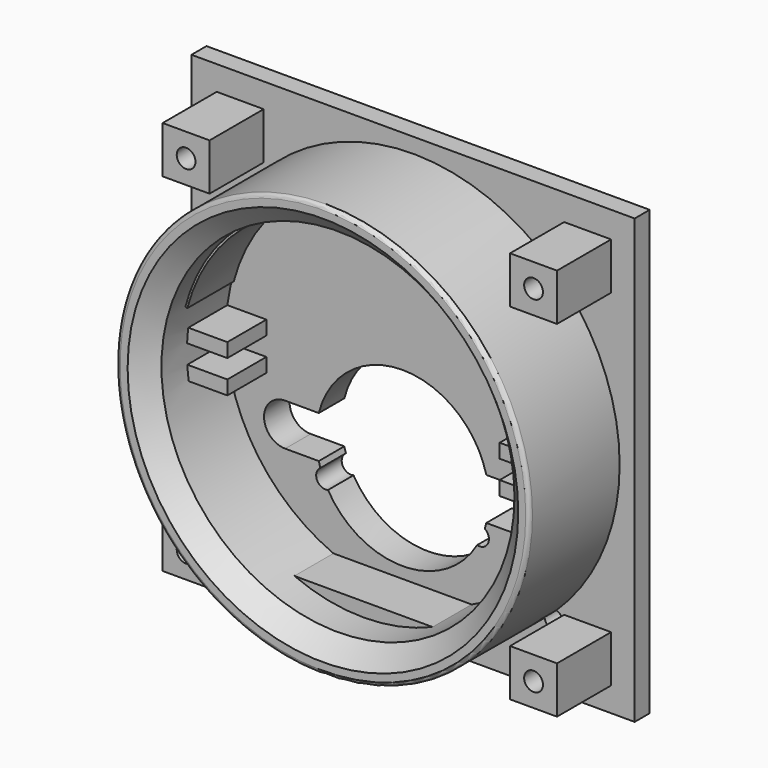
from build123d import *

# Parameters (mm, degrees)
F0_R      = 24.257
F1_DEPTH  = 4.318
F2_D      = 2.54
F3_DEPTH  = 10.922
F4_R      = 27.94
F4_R_2    = 23.876
F5_DEPTH  = 17.78
F0_W      = 59.944
F0_H      = 59.944
F0_W_2    = 6.35
F0_H_2    = 6.35
F8_DEPTH  = 2.54
F10_DEPTH = 9.652
F11_R     = 1.27
F12_DEPTH = 5.08
F7_W      = 25.4
F7_H      = 2.54
F7_W_2    = 6.35
F7_H_2    = 1.905
F13_DEPTH = 8.382
F14_DEPTH = 11.684
F15_D     = 2.54
F16_SIZE  = 2.54
F17_R     = 0.508


with BuildPart() as f1:
    # F0 (on Front) → F1 (new body)
    with BuildSketch(Plane.XZ):
        Circle(F0_R)
        with BuildLine():
            ThreePointArc((-11.329190163, -5.9055), (0, 2.921), (11.329190163, -5.9055))
            Line((11.329190163, -5.9055), (15.875, -5.9055))
            ThreePointArc((15.875, -5.9055), (17.8955576272, -6.7424423728), (18.7325, -8.763))
            ThreePointArc((18.7325, -8.763), (17.8955576272, -10.7835576272), (15.875, -11.6205))
            Line((15.875, -11.6205), (11.329190163, -11.6205))
            ThreePointArc((11.329190163, -11.6205), (0, -20.447), (-11.329190163, -11.6205))
            Line((-11.329190163, -11.6205), (-15.875, -11.6205))
            ThreePointArc((-15.875, -11.6205), (-18.7325, -8.763), (-15.875, -5.9055))
            Line((-15.875, -5.9055), (-11.329190163, -5.9055))
        make_face(mode=Mode.SUBTRACT)
    extrude(amount=F1_DEPTH)

    # F2 (through all)
    with Locations(Plane(origin=(0, 0, 0), x_dir=(1, 0, 0), z_dir=(0, 1, 0))):
        with Locations((-10.414, 13.4366), (10.414, 13.4366)):
            Hole(F2_D / 2)

    # F0 (on Front) → F3 (cut)
    with BuildSketch(Plane.XZ):
        Circle(F0_R)
        with BuildLine():
            ThreePointArc((-11.329190163, -5.9055), (0, 2.921), (11.329190163, -5.9055))
            Line((11.329190163, -5.9055), (15.875, -5.9055))
            ThreePointArc((15.875, -5.9055), (17.8955576272, -6.7424423728), (18.7325, -8.763))
            ThreePointArc((18.7325, -8.763), (17.8955576272, -10.7835576272), (15.875, -11.6205))
            Line((15.875, -11.6205), (11.329190163, -11.6205))
            ThreePointArc((11.329190163, -11.6205), (0, -20.447), (-11.329190163, -11.6205))
            Line((-11.329190163, -11.6205), (-15.875, -11.6205))
            ThreePointArc((-15.875, -11.6205), (-18.7325, -8.763), (-15.875, -5.9055))
            Line((-15.875, -5.9055), (-11.329190163, -5.9055))
        make_face(mode=Mode.SUBTRACT)
        Circle(F0_R)
        with BuildLine():
            ThreePointArc((-11.329190163, -5.9055), (0, 2.921), (11.329190163, -5.9055))
            Line((11.329190163, -5.9055), (15.875, -5.9055))
            ThreePointArc((15.875, -5.9055), (17.8955576272, -6.7424423728), (18.7325, -8.763))
            ThreePointArc((18.7325, -8.763), (17.8955576272, -10.7835576272), (15.875, -11.6205))
            Line((15.875, -11.6205), (11.329190163, -11.6205))
            ThreePointArc((11.329190163, -11.6205), (0, -20.447), (-11.329190163, -11.6205))
            Line((-11.329190163, -11.6205), (-15.875, -11.6205))
            ThreePointArc((-15.875, -11.6205), (-18.7325, -8.763), (-15.875, -5.9055))
            Line((-15.875, -5.9055), (-11.329190163, -5.9055))
        make_face(mode=Mode.SUBTRACT)
        with BuildLine():
            ThreePointArc((-13.0175, -8.763), (-13.8544423728, -6.7424423728), (-15.875, -5.9055))
            Line((-15.875, -5.9055), (-15.875, -11.6205))
            ThreePointArc((-15.875, -11.6205), (-13.8544423728, -10.7835576272), (-13.0175, -8.763))
        make_face()
        with BuildLine():
            Line((-15.875, -11.6205), (-15.875, -5.9055))
            ThreePointArc((-15.875, -5.9055), (-18.7325, -8.763), (-15.875, -11.6205))
        make_face()
        with BuildLine():
            Line((15.875, -11.6205), (15.875, -5.9055))
            ThreePointArc((15.875, -5.9055), (13.0175, -8.763), (15.875, -11.6205))
        make_face()
        with BuildLine():
            ThreePointArc((18.7325, -8.763), (17.8955576272, -6.7424423728), (15.875, -5.9055))
            Line((15.875, -5.9055), (15.875, -11.6205))
            ThreePointArc((15.875, -11.6205), (17.8955576272, -10.7835576272), (18.7325, -8.763))
        make_face()
    extrude(amount=-F3_DEPTH, mode=Mode.SUBTRACT)

    # F4 (on Front) → F5 (join)
    with BuildSketch(Plane.XZ):
        Circle(F4_R)
        Circle(F4_R_2, mode=Mode.SUBTRACT)
    extrude(amount=F5_DEPTH)

    # F0 (on Front) → F8 (join)
    with BuildSketch(Plane.XZ):
        Rectangle(F0_W, F0_H)
        with Locations((-23.3818002729, -23.495)):
            Rectangle(F0_W_2, F0_H_2, mode=Mode.SUBTRACT)
        Circle(F0_R, mode=Mode.SUBTRACT)
        with Locations((23.6081997271, -23.495)):
            Rectangle(F0_W_2, F0_H_2, mode=Mode.SUBTRACT)
        with Locations((-23.3818002729, 23.495)):
            Rectangle(F0_W_2, F0_H_2, mode=Mode.SUBTRACT)
        with Locations((23.6081997271, 23.2674991059)):
            Rectangle(F0_W_2, F0_H_2, mode=Mode.SUBTRACT)
    extrude(amount=F8_DEPTH)

    # F11 (on Front) → F12 (cut)
    with BuildSketch(Plane.XZ):
        with Locations((19.05, 16.7340026)):
            Circle(F11_R)
        with Locations((-19.05, 16.7340026)):
            Circle(F11_R)
        with Locations((-19.05, -21.3659974)):
            Circle(F11_R)
        with Locations((19.05, -21.3659974)):
            Circle(F11_R)
    extrude(amount=F12_DEPTH, mode=Mode.SUBTRACT)

    # F7 (on offset) → F13 (join)
    with BuildSketch(Plane.XZ.offset(2.54)):
        with Locations((0, -23.241)):
            Rectangle(F7_W, F7_H)
        with Locations((-21.59, 1.9685)):
            Rectangle(F7_W_2, F7_H_2)
        with Locations((-21.59, -2.4765)):
            Rectangle(F7_W_2, F7_H_2)
        with Locations((21.59, -2.4765)):
            Rectangle(F7_W_2, F7_H_2)
        with Locations((21.59, 1.9685)):
            Rectangle(F7_W_2, F7_H_2)
    extrude(amount=F13_DEPTH)

    # F0 (on Front) → F14 (join)
    with BuildSketch(Plane.XZ):
        with Locations((-23.3818002729, -23.495)):
            Rectangle(F0_W_2, F0_H_2)
        with Locations((-23.3818002729, 23.495)):
            Rectangle(F0_W_2, F0_H_2)
        with Locations((23.6081997271, 23.2674991059)):
            Rectangle(F0_W_2, F0_H_2)
        with Locations((23.6081997271, -23.495)):
            Rectangle(F0_W_2, F0_H_2)
    extrude(amount=F14_DEPTH)

    # F15 (through all)
    with Locations(Plane(origin=(0, 0, 0), x_dir=(1, 0, 0), z_dir=(0, 1, 0))):
        with Locations((-23.3818002729, -23.495), (23.6081997271, -23.2674991059), (-23.3818002729, 23.495), (23.6081997271, 23.495)):
            Hole(F15_D / 2)

    # F16
    f16_edges = [f1.edges().sort_by_distance(p)[0] for p in [
        (-23.876, -17.78, 0),
    ]]
    chamfer(f16_edges, length=F16_SIZE)

    # F17
    f17_edges = [f1.edges().sort_by_distance(p)[0] for p in [
        (-27.94, -17.78, 0),
    ]]
    fillet(f17_edges, radius=F17_R)


with BuildPart() as f10:
    # F9 (on offset) → F10 (new body)
    with BuildSketch(Plane.XZ.offset(2.54)):
        with BuildLine():
            Line((22.8097548437, 6.1129368152), (23.4296390158, 6.2530125087))
            ThreePointArc((23.4296390158, 6.2530125087), (-0.0140705905, 24.2286998006), (-23.4368858608, 6.2257950758))
            Line((-23.4368858608, 6.2257950758), (-22.8315827941, 6.0311575344))
            ThreePointArc((-22.8315827941, 6.0311575344), (-0.0423088793, 23.5936664159), (22.8097548437, 6.1129368152))
        make_face()
    extrude(amount=F10_DEPTH)


solid = Compound([f1.part, f10.part])
